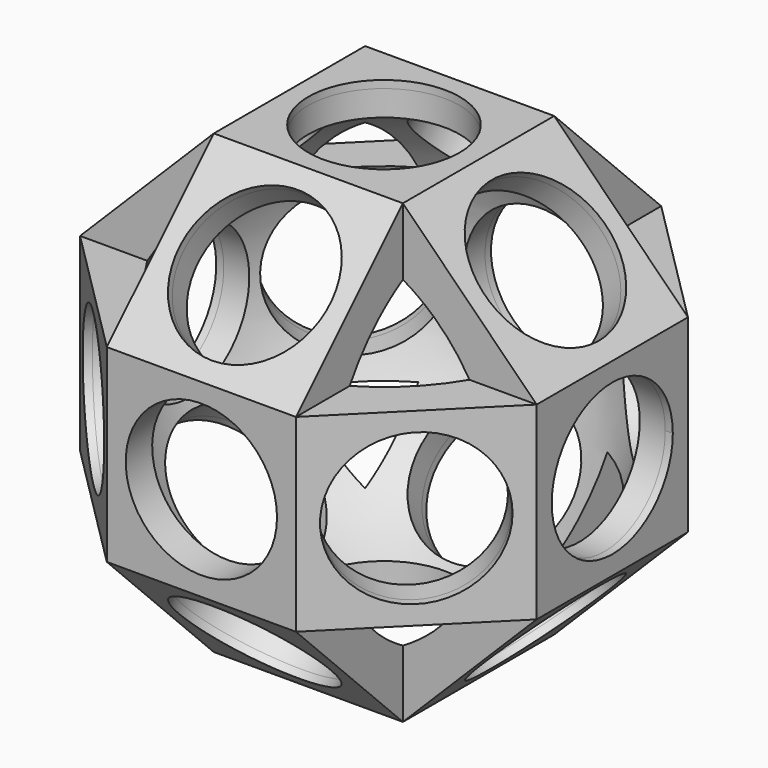
from build123d import *

# Parameters (mm, degrees)
F1_DEPTH      = 25
F1_DEPTH_BACK = 25
F2_R          = 20
F3_DEPTH      = 2
F4_COUNT      = 5
F4_ANGLE      = 180
F5_COUNT      = 4
F6_COUNT      = 2
F6_ANGLE      = 90
F8_DEPTH      = 118.7116781187
F9_DEPTH      = 143.7116781894
F10_DEPTH     = 118.7116781187
F11_DEPTH     = 143.7116781894
F12_DEPTH     = 143.7116781894
F13_DEPTH     = 118.7116781187
F14_DEPTH     = 143.7116782601
F15_DEPTH     = 143.7116781894
F16_DEPTH     = 143.7116781894


with BuildPart() as f1:
    # F0 (on Front) → F1 (new body, two sides)
    with BuildSketch(Plane.XZ) as f1_sk:
        with BuildLine():
            ThreePointArc((55.3553390593, 0), (53.8429425001, -12.8511129985), (49.3883950172, -25))
            Line((49.3883950172, -25), (60.3553390593, -25))
            Line((60.3553390593, -25), (60.3553390593, 0))
            Line((60.3553390593, 0), (60.3553390593, 20))
            Line((60.3553390593, 20), (60.3553390593, 25))
            Line((60.3553390593, 25), (49.3883950172, 25))
            ThreePointArc((49.3883950172, 25), (53.8429425001, 12.8511129985), (55.3553390593, 0))
        make_face()
        with BuildLine():
            ThreePointArc((55.3553390593, 0), (53.8429425001, -12.8511129985), (49.3883950172, -25))
            Line((49.3883950172, -25), (60.3553390593, -25))
            Line((60.3553390593, -25), (60.3553390593, 0))
            Line((60.3553390593, 0), (60.3553390593, 20))
            Line((60.3553390593, 20), (60.3553390593, 25))
            Line((60.3553390593, 25), (49.3883950172, 25))
            ThreePointArc((49.3883950172, 25), (53.8429425001, 12.8511129985), (55.3553390593, 0))
        make_face()
        with BuildLine():
            Line((0, 5), (0, 0))
            Line((0, 0), (0, -5))
            Line((0, -5), (0, -25))
            Line((0, -25), (49.3883950172, -25))
            ThreePointArc((49.3883950172, -25), (53.8429425001, -12.8511129985), (55.3553390593, 0))
            ThreePointArc((55.3553390593, 0), (53.8429425001, 12.8511129985), (49.3883950172, 25))
            Line((49.3883950172, 25), (0, 25))
            Line((0, 25), (0, 5))
        make_face()
    extrude(amount=F1_DEPTH)
    extrude(f1_sk.sketch, amount=-F1_DEPTH_BACK)

    # F2 (on face) → F3 (cut)
    with BuildSketch(Plane.YZ.offset(60.3553390593)):
        Circle(F2_R)
    extrude(amount=-F3_DEPTH, mode=Mode.SUBTRACT)

    # F4: F1 ×5 about axis
    f4_axis = Axis((0, 0, -15), (0, 0, -1))


with BuildPart() as f1_1:
    add(f1.part)
    for i in range(1, F4_COUNT):
        add(f1.part.rotate(f4_axis, i * F4_ANGLE / (F4_COUNT - 1)))

    # F5: F1 ×4 about axis
    f5_axis = Axis((12.5, 0, 0), (1, 0, 0))


with BuildPart() as f1_2:
    add(f1_1.part)
    for i in range(1, F5_COUNT):
        add(f1_1.part.rotate(f5_axis, i * 360 / F5_COUNT))

    # F6: F1 ×2 about axis
    f6_axis = Axis((0, 0, 15), (0, 0, -1))


with BuildPart() as f1_3:
    add(f1_2.part)
    for i in range(1, F6_COUNT):
        add(f1_2.part.rotate(f6_axis, i * F6_ANGLE / (F6_COUNT - 1)))

    # F0 (on Front) → F7 (revolve, cut)
    with BuildSketch(Plane.XZ):
        with BuildLine():
            Line((0, -5), (0, 0))
            Line((0, 0), (0, 5))
            Line((0, 5), (0, 25))
            Line((0, 25), (0, 55.3553390593))
            ThreePointArc((0, 55.3553390593), (-55.3553390593, 0), (0, -55.3553390593))
            Line((0, -55.3553390593), (0, -25))
            Line((0, -25), (0, -5))
        make_face()
    revolve(axis=Axis((0, 0, -15), (0, 0, -1)), mode=Mode.SUBTRACT)

    # F8 (cut, through all): a face of the model
    f8_faces = [f1_3.faces().sort_by_distance(p)[0] for p in [
        (0, 0, 58.3553390593),
    ]]
    extrude(f8_faces, amount=-F8_DEPTH, mode=Mode.SUBTRACT)

    # F9 (cut, through all): a face of the model
    f9_faces = [f1_3.faces().sort_by_distance(p)[0] for p in [
        (0, 41.2634559673, 41.2634559673),
    ]]
    extrude(f9_faces, amount=-F9_DEPTH, mode=Mode.SUBTRACT)

    # F10 (cut, through all): a face of the model
    f10_faces = [f1_3.faces().sort_by_distance(p)[0] for p in [
        (0, 58.3553390593, 0),
    ]]
    extrude(f10_faces, amount=-F10_DEPTH, mode=Mode.SUBTRACT)

    # F11 (cut, through all): a face of the model
    f11_faces = [f1_3.faces().sort_by_distance(p)[0] for p in [
        (0, 41.2634559673, -41.2634559673),
    ]]
    extrude(f11_faces, amount=-F11_DEPTH, mode=Mode.SUBTRACT)

    # F12 (cut, through all): a face of the model
    f12_faces = [f1_3.faces().sort_by_distance(p)[0] for p in [
        (-41.2634559673, 41.2634559673, 0),
    ]]
    extrude(f12_faces, amount=-F12_DEPTH, mode=Mode.SUBTRACT)

    # F13 (cut, through all): a face of the model
    f13_faces = [f1_3.faces().sort_by_distance(p)[0] for p in [
        (-58.3553390593, 0, 0),
    ]]
    extrude(f13_faces, amount=-F13_DEPTH, mode=Mode.SUBTRACT)

    # F14 (cut, through all): a face of the model
    f14_faces = [f1_3.faces().sort_by_distance(p)[0] for p in [
        (-41.2634559673, 0, 41.2634559673),
    ]]
    extrude(f14_faces, amount=-F14_DEPTH, mode=Mode.SUBTRACT)

    # F15 (cut, through all): a face of the model
    f15_faces = [f1_3.faces().sort_by_distance(p)[0] for p in [
        (-41.2634559673, 0, -41.2634559673),
    ]]
    extrude(f15_faces, amount=-F15_DEPTH, mode=Mode.SUBTRACT)

    # F16 (cut, through all): a face of the model
    f16_faces = [f1_3.faces().sort_by_distance(p)[0] for p in [
        (-41.2634559673, -41.2634559673, 0),
    ]]
    extrude(f16_faces, amount=-F16_DEPTH, mode=Mode.SUBTRACT)


solid = f1_3.part
